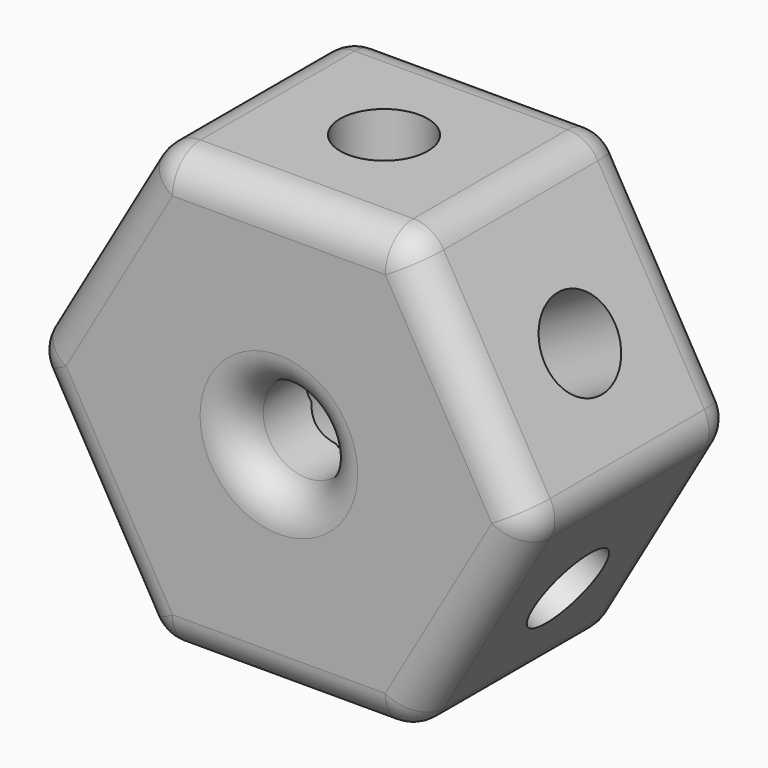
from build123d import *

# Parameters (mm, degrees)
F1_DEPTH = 38.1
F3_D     = 12.7
F4_R     = 5.08
F6_D     = 12.7
F8_D     = 12.7
F10_D    = 12.7


with BuildPart() as f1:
    # F0 (on Front) → F1 (new body)
    with BuildSketch(Plane.XZ):
        Polygon((18.3627507502, 33.7930433452), (-18.3627507502, 33.7930433452), (-36.7255015004, 1.9878260791), (-18.3627507502, -29.817391187), (18.3627507502, -29.817391187), (36.7255015004, 1.9878260791), align=None)
    extrude(amount=F1_DEPTH)

    # F3 (through all)
    with Locations(Plane.XZ.offset(38.1)):
        with Locations((0, 1.9878260791)):
            Hole(F3_D / 2)

    # F4
    f4_edges = [f1.edges().sort_by_distance(p)[0] for p in [
        (-27.544126, -38.1, 17.890435),
        (0, -38.1, 33.793043),
        (27.544126, -38.1, 17.890435),
        (27.544126, -38.1, -13.914783),
        (0, -38.1, -29.817391),
        (-27.544126, -38.1, -13.914783),
        (-6.35, -38.1, 1.987826),
        (0, 0, -29.817391),
        (27.544126, 0, -13.914783),
        (27.544126, 0, 17.890435),
        (0, 0, 33.793043),
        (-27.544126, 0, 17.890435),
        (-27.544126, 0, -13.914783),
        (-6.35, 0, 1.987826),
        (-18.362751, -19.05, -29.817391),
        (-18.362751, -19.05, 33.793043),
        (-36.725502, -19.05, 1.987826),
        (18.362751, -19.05, 33.793043),
        (18.362751, -19.05, -29.817391),
        (36.725502, -19.05, 1.987826),
    ]]
    fillet(f4_edges, radius=F4_R)

    # F6 (through all)
    with Locations(Plane(origin=(-28.4048800667, 0, 16.3995651528), x_dir=(0, -1, 0), z_dir=(-0.8660254038, 0, 0.5))):
        with Locations((19.05, 0)):
            Hole(F6_D / 2)

    # F8 (through all)
    with Locations(Plane(origin=(-26.6833721839, 0, -15.4056521133), x_dir=(0, -1, 0), z_dir=(-0.8660254038, 0, -0.5))):
        with Locations((19.05, 0)):
            Hole(F8_D / 2)

    # F10 (through all)
    with Locations(Plane(origin=(0, 0, -29.817391187), x_dir=(1, 0, 0), z_dir=(0, 0, -1))):
        with Locations((0, 19.05)):
            Hole(F10_D / 2)


solid = f1.part
